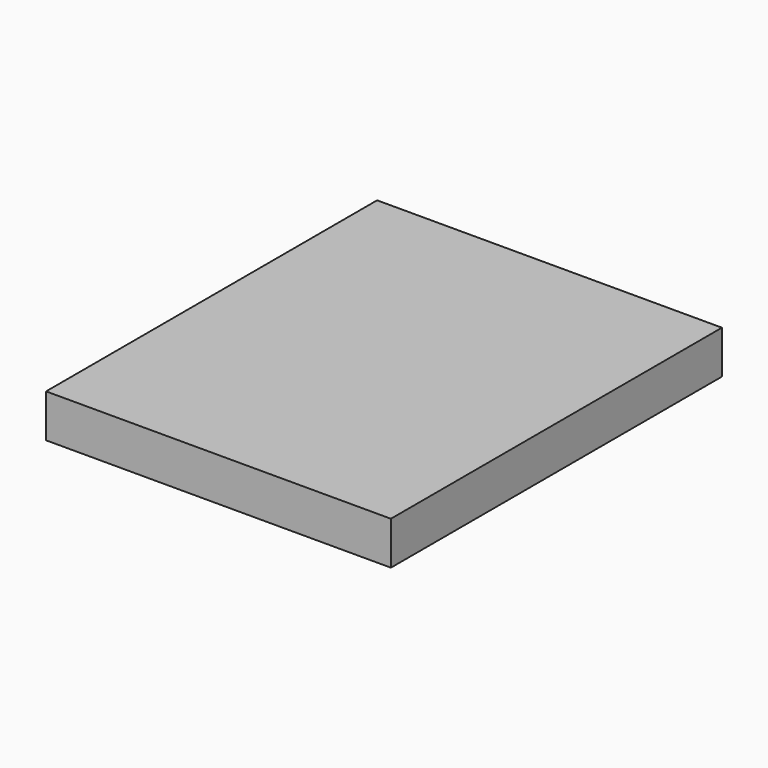
from build123d import *

# Parameters (mm, degrees)
BOX_W     = 254
BOX_H     = 304.8
BOX_DEPTH = 31.75


with BuildPart() as part:
    # Box → Box (new body)
    with BuildSketch(Plane.XY):
        with Locations((127, 152.4)):
            Rectangle(BOX_W, BOX_H)
    extrude(amount=BOX_DEPTH)


solid = part.part
